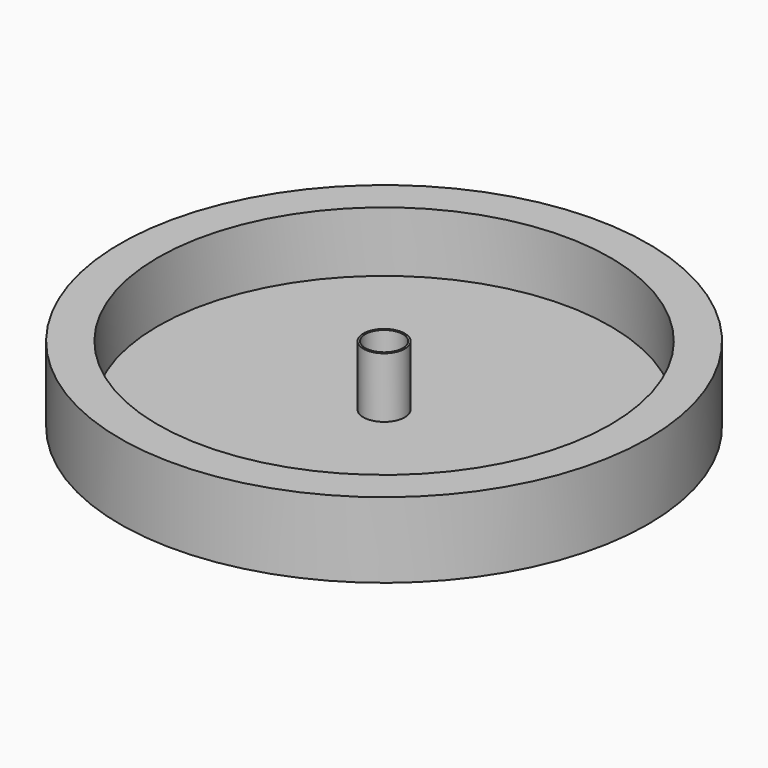
from build123d import *

# Parameters (mm, degrees)
F0_R     = 35
F1_DEPTH = 10
F2_R     = 30
F3_DEPTH = 8
F4_R     = 2.75
F5_DEPTH = 8
F6_R     = 2.5
F7_DEPTH = 10


with BuildPart() as f1:
    # F0 (on Top) → F1 (new body)
    with BuildSketch(Plane.XY):
        Circle(F0_R)
    extrude(amount=F1_DEPTH)

    # F2 (on face) → F3 (cut)
    with BuildSketch(Plane.XY.offset(10)):
        Circle(F2_R)
    extrude(amount=-F3_DEPTH, mode=Mode.SUBTRACT)

    # F4 (on face) → F5 (join)
    with BuildSketch(Plane.XY.offset(2)):
        Circle(F4_R)
    extrude(amount=F5_DEPTH)

    # F6 (on face) → F7 (cut)
    with BuildSketch(Plane.XY.offset(10)):
        Circle(F6_R)
    extrude(amount=-F7_DEPTH, mode=Mode.SUBTRACT)


solid = f1.part
